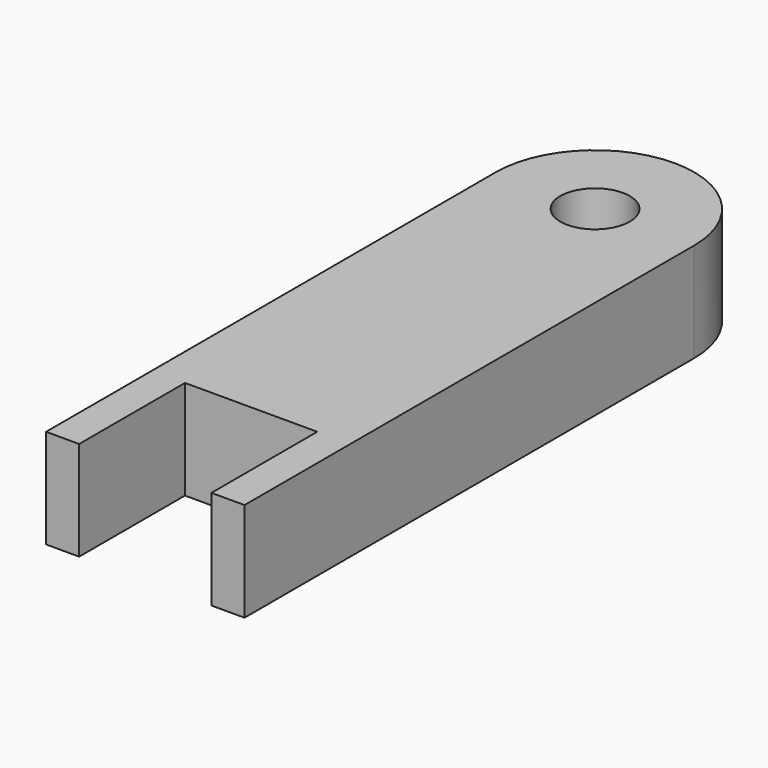
from build123d import *

# Parameters (mm, degrees)
F0_W     = 6.35
F0_H     = 25.4
F1_DEPTH = 19.05


with BuildPart() as f1:
    # F0 (on Top) → F1 (new body)
    with BuildSketch(Plane.XY):
        with BuildLine():
            Line((6.6675, 0), (19.05, 0))
            ThreePointArc((19.05, 0), (0, 19.05), (-19.05, 0))
            Line((-19.05, 0), (-6.6675, 0))
            ThreePointArc((-6.6675, 0), (0, 6.6675), (6.6675, 0))
        make_face()
        with BuildLine():
            Line((19.05, -82.55), (19.05, 0))
            ThreePointArc((19.05, 0), (0, -19.05), (-19.05, 0))
            Line((-19.05, 0), (-19.05, -82.55))
            Line((-19.05, -82.55), (-12.7, -82.55))
            Line((-12.7, -82.55), (12.7, -82.55))
            Line((12.7, -82.55), (19.05, -82.55))
        make_face()
        with BuildLine():
            ThreePointArc((-19.05, 0), (0, -19.05), (19.05, 0))
            Line((19.05, 0), (6.6675, 0))
            ThreePointArc((6.6675, 0), (0, -6.6675), (-6.6675, 0))
            Line((-6.6675, 0), (-19.05, 0))
        make_face()
        with Locations((15.875, -95.25)):
            Rectangle(F0_W, F0_H)
        with Locations((-15.875, -95.25)):
            Rectangle(F0_W, F0_H)
    extrude(amount=F1_DEPTH)


solid = f1.part
